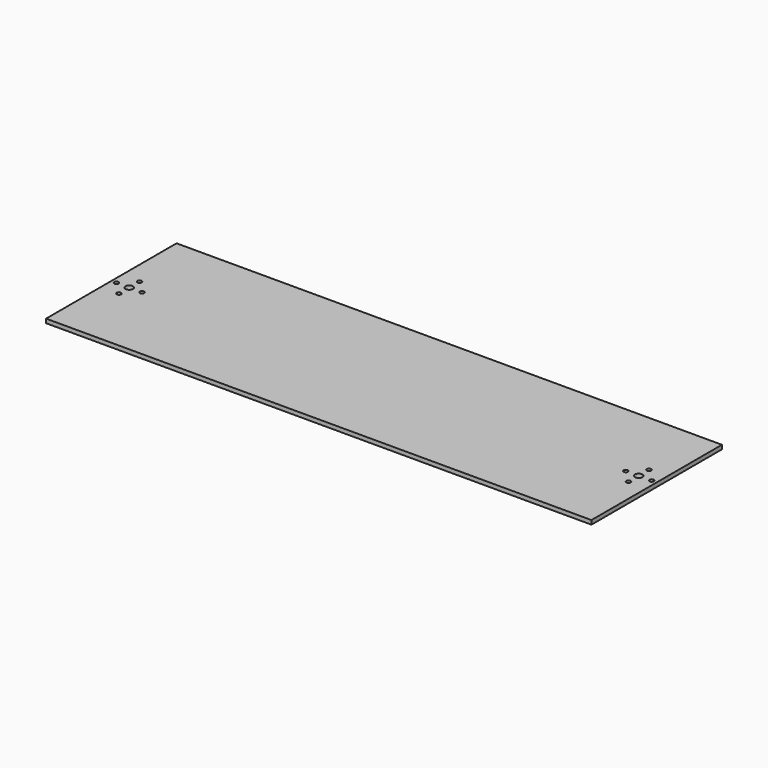
from build123d import *

# Parameters (mm, degrees)
F0_W     = 169.8625
F0_H     = 101.6
F0_R     = 1.3589
F0_R_2   = 2.3495
F1_DEPTH = 2.54


with BuildPart() as f1:
    # F0 (on Top) → F1 (new body)
    with BuildSketch(Plane.XY):
        with Locations((84.93125, -50.8)):
            Rectangle(F0_W, F0_H)
        with Locations((11.176, -58.801)):
            Circle(F0_R, mode=Mode.SUBTRACT)
        with Locations((3.175, -50.8)):
            Circle(F0_R, mode=Mode.SUBTRACT)
        with Locations((11.176, -50.8)):
            Circle(F0_R_2, mode=Mode.SUBTRACT)
        with Locations((19.177, -50.8)):
            Circle(F0_R, mode=Mode.SUBTRACT)
        with Locations((11.176, -42.799)):
            Circle(F0_R, mode=Mode.SUBTRACT)
        with Locations((254.79375, -50.8)):
            Rectangle(F0_W, F0_H)
        with Locations((328.549, -58.801)):
            Circle(F0_R, mode=Mode.SUBTRACT)
        with Locations((320.548, -50.8)):
            Circle(F0_R, mode=Mode.SUBTRACT)
        with Locations((328.549, -50.8)):
            Circle(F0_R_2, mode=Mode.SUBTRACT)
        with Locations((336.55, -50.8)):
            Circle(F0_R, mode=Mode.SUBTRACT)
        with Locations((328.549, -42.799)):
            Circle(F0_R, mode=Mode.SUBTRACT)
    extrude(amount=F1_DEPTH)


solid = f1.part
